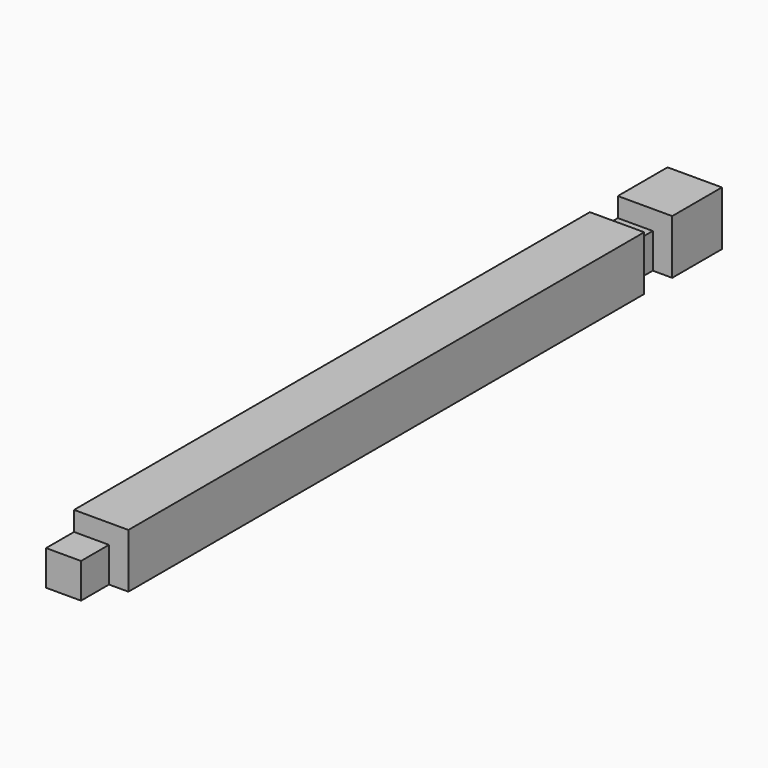
from build123d import *

# Parameters (mm, degrees)
F0_W     = 70
F0_H     = 70
F1_DEPTH = 1000
F2_W     = 70
F2_H     = 45
F3_DEPTH = 25
F4_W     = 45
F4_H     = 45
F5_DEPTH = 25
F6_W     = 70
F6_H     = 45
F7_DEPTH = 25
F8_W     = 45
F8_H     = 45
F9_DEPTH = 25


with BuildPart() as f1:
    # F0 (on Front) → F1 (new body)
    with BuildSketch(Plane.XZ):
        Rectangle(F0_W, F0_H)
    extrude(amount=-F1_DEPTH)

    # F2 (on face) → F3 (cut)
    with BuildSketch(Plane.XY.offset(35)):
        with Locations((0, 22.5)):
            Rectangle(F2_W, F2_H)
    extrude(amount=-F3_DEPTH, mode=Mode.SUBTRACT)

    # F4 (on face) → F5 (cut)
    with BuildSketch(Plane.YZ.offset(35)):
        with Locations((22.5, -12.5)):
            Rectangle(F4_W, F4_H)
    extrude(amount=-F5_DEPTH, mode=Mode.SUBTRACT)

    # F6 (on face) → F7 (cut)
    with BuildSketch(Plane.XY.offset(35)):
        with Locations((0, 897.5)):
            Rectangle(F6_W, F6_H)
    extrude(amount=-F7_DEPTH, mode=Mode.SUBTRACT)

    # F8 (on face) → F9 (cut)
    with BuildSketch(Plane.YZ.offset(35)):
        with Locations((897.5, -12.5)):
            Rectangle(F8_W, F8_H)
    extrude(amount=-F9_DEPTH, mode=Mode.SUBTRACT)


solid = f1.part
